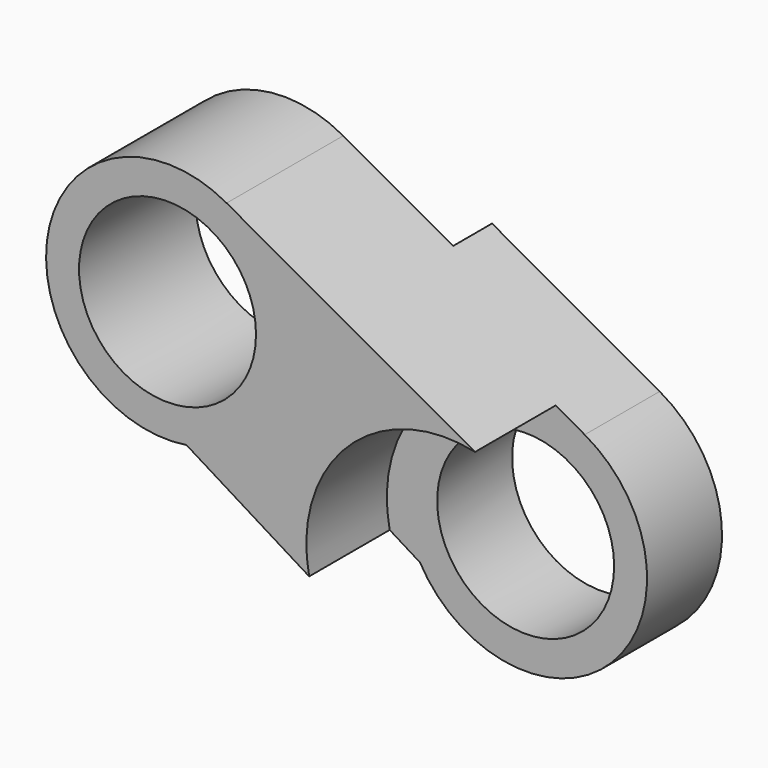
from build123d import *

# Parameters (mm, degrees)
SKETCH012_R       = 2.55
PAD010_DEPTH      = 5.6
CYLINDER008_R     = 5
CYLINDER008_DEPTH = 10
CYLINDER009_R     = 4
CYLINDER009_DEPTH = 8


with BuildPart() as part:
    # Sketch012 → Pad010 (new body)
    with BuildSketch(Plane.XZ.offset(6.2)):
        with BuildLine():
            ThreePointArc((4.954527, 54.655154), (10.483926, 53.914212), (9.702481, 59.438032))
            Line((1.702481, 63.891826), (9.702481, 59.438032))
            ThreePointArc((1.702481, 63.891826), (-3.446315, 61.444457), (0.548094, 57.376976))
            Line((0.548094, 57.376976), (4.954527, 54.655154))
        make_face()
        with Locations((8, 56.38)):
            Circle(SKETCH012_R, mode=Mode.SUBTRACT)
        with Locations((0, 60.833794)):
            Circle(SKETCH012_R, mode=Mode.SUBTRACT)
    extrude(amount=PAD010_DEPTH)

    # Cylinder008 → Cylinder008 (cut)
    with BuildSketch(Plane(origin=(0, 2.4, 61), x_dir=(1, 0, 0), z_dir=(0, -1, 0))):
        Circle(CYLINDER008_R)
    extrude(amount=CYLINDER008_DEPTH, mode=Mode.SUBTRACT)

    # Cylinder009 → Cylinder009 (cut)
    with BuildSketch(Plane(origin=(8, -8.9, 56), x_dir=(1, 0, 0), z_dir=(0, -1, 0))):
        Circle(CYLINDER009_R)
    extrude(amount=CYLINDER009_DEPTH, mode=Mode.SUBTRACT)


solid = part.part
